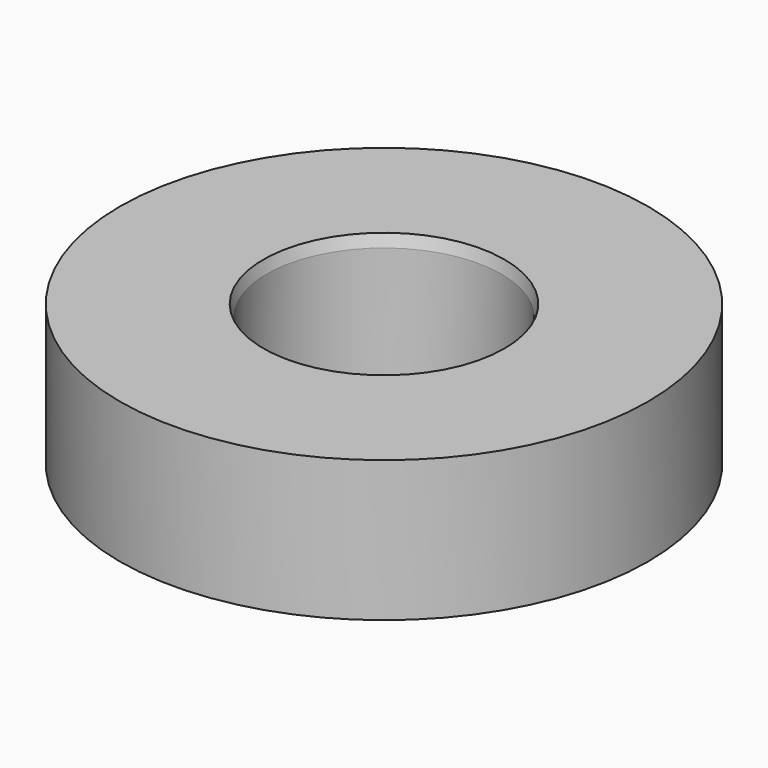
from build123d import *

# Parameters (mm, degrees)
F0_R     = 28.575
F0_R_2   = 12.7
F1_DEPTH = 15.24
F2_SIZE2 = 0.3402954744
F2_SIZE  = 1.27
F4_D     = 3.4544
F4_DEPTH = 7.62
F4_TIP   = 1.0378064612


with BuildPart() as f1:
    # F0 (on Top) → F1 (new body)
    with BuildSketch(Plane.XY):
        Circle(F0_R)
        Circle(F0_R_2, mode=Mode.SUBTRACT)
    extrude(amount=F1_DEPTH)

    # F2
    f2_edges = [f1.edges().sort_by_distance(p)[0] for p in [
        (-12.7, 0, 15.24),
        (-12.7, 0, 0),
    ]]
    f2_side = f1.faces().sort_by_distance((-12.7, 0, 7.62))[0]
    chamfer(f2_edges, length=F2_SIZE, length2=F2_SIZE2, reference=f2_side)

    # F4
    with Locations(Plane(origin=(0, 0, 0), x_dir=(1, 0, 0), z_dir=(0, 0, -1))):
        with Locations((0, -19.685), (-19.685, 0), (0, 19.685), (19.685, 0)):
            Hole(F4_D / 2, depth=F4_DEPTH)
            with Locations((0, 0, -(F4_DEPTH + F4_TIP / 2))):  # 118° drill point
                Cone(0, F4_D / 2, F4_TIP, mode=Mode.SUBTRACT)


solid = f1.part
